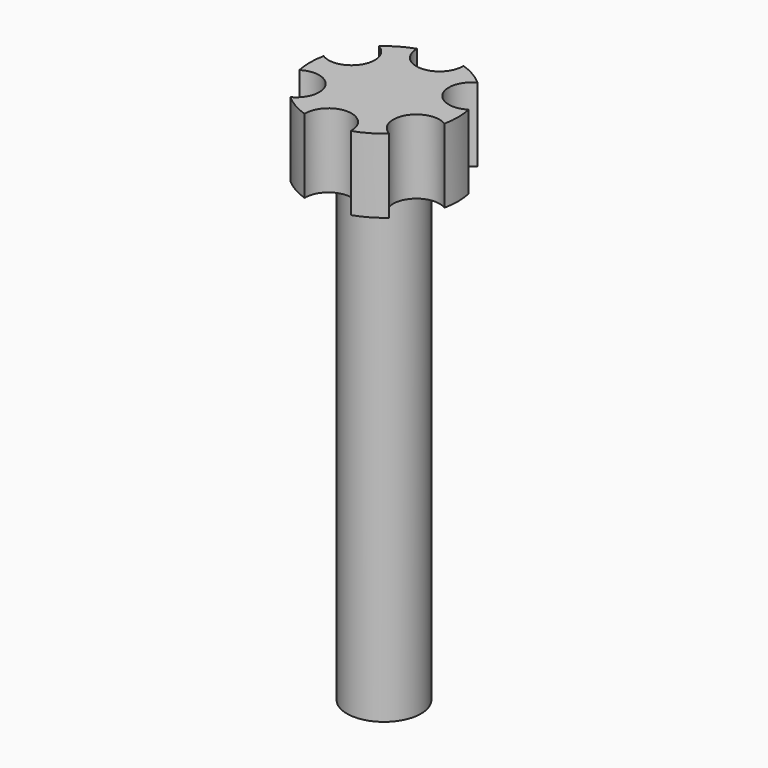
from build123d import *

# Parameters (mm, degrees)
F1_DEPTH = 0.8
F2_R     = 0.4
F3_DEPTH = 5


with BuildPart() as f1:
    # F0 (on Top) → F1 (new body)
    with BuildSketch(Plane.XY):
        with BuildLine():
            ThreePointArc((0.2498, 0.76), (0, 0.5), (-0.2498, 0.76))
            ThreePointArc((-0.2498, 0.76), (-0.4, 0.69282), (-0.533279, 0.596333))
            ThreePointArc((-0.533279, 0.596333), (-0.433013, 0.25), (-0.783079, 0.163667))
            ThreePointArc((-0.783079, 0.163667), (-0.8, 0), (-0.783079, -0.163667))
            ThreePointArc((-0.783079, -0.163667), (-0.433013, -0.25), (-0.533279, -0.596333))
            ThreePointArc((-0.533279, -0.596333), (-0.4, -0.69282), (-0.2498, -0.76))
            ThreePointArc((-0.2498, -0.76), (0, -0.5), (0.2498, -0.76))
            ThreePointArc((0.2498, -0.76), (0.4, -0.69282), (0.533279, -0.596333))
            ThreePointArc((0.533279, -0.596333), (0.433013, -0.25), (0.783079, -0.163667))
            ThreePointArc((0.783079, -0.163667), (0.8, 0), (0.783079, 0.163667))
            ThreePointArc((0.783079, 0.163667), (0.433013, 0.25), (0.533279, 0.596333))
            ThreePointArc((0.533279, 0.596333), (0.4, 0.69282), (0.2498, 0.76))
        make_face()
    extrude(amount=F1_DEPTH)

    # F2 (on Top) → F3 (join)
    with BuildSketch(Plane.XY):
        Circle(F2_R)
    extrude(amount=-F3_DEPTH)


solid = f1.part
